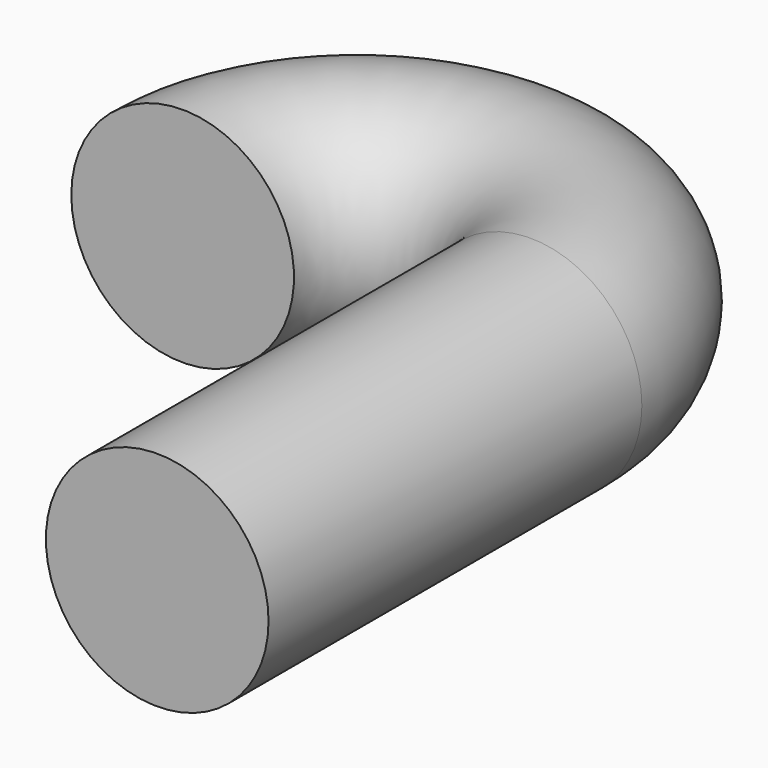
from build123d import *

# Parameters (mm, degrees)
F1_R = 8.7183725312


with BuildPart() as f2:
    # F2: sweep along a path in F0
    with BuildLine(Plane.XY) as f2_path:
        Line((0, 0), (0, 36.5416929126))
        ThreePointArc((0, 36.5416929126), (-13.6210797355, 50.162772648), (-27.2421594709, 36.5416929126))
    # F1 (on Front) → F2 (sweep)
    with BuildSketch(Plane.XZ):
        Circle(F1_R)
    sweep(path=f2_path.line)


solid = f2.part
